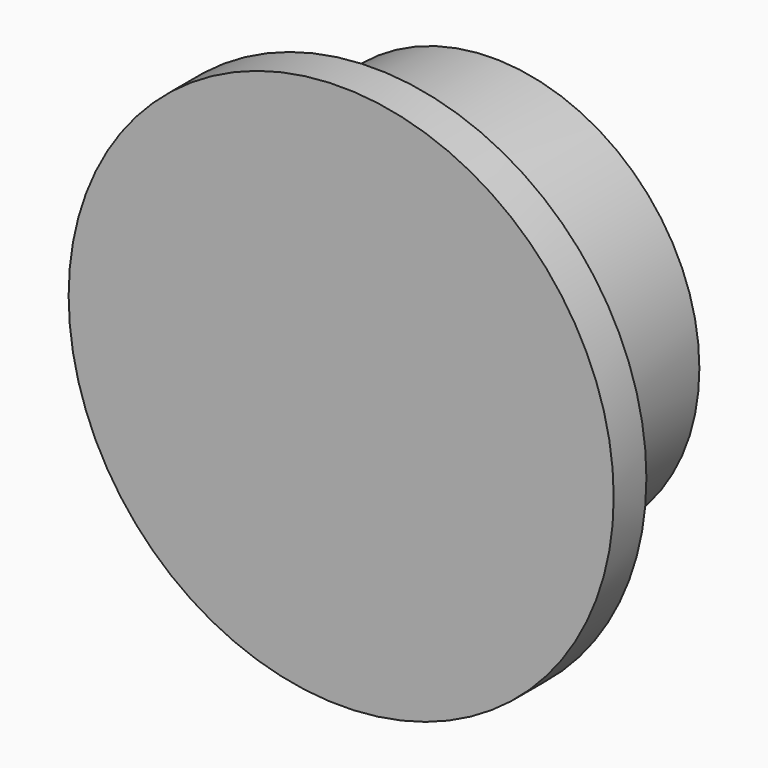
from build123d import *

# Parameters (mm, degrees)
F0_R     = 35.572234
F1_DEPTH = 5.334
F2_R     = 26.898119
F3_DEPTH = 20.066


with BuildPart() as f1:
    # F0 (on Front) → F1 (new body)
    with BuildSketch(Plane.XZ):
        with Locations((32.578804, 14.283045)):
            Circle(F0_R)
    extrude(amount=F1_DEPTH)

    # F2 (on Front) → F3 (join)
    with BuildSketch(Plane.XZ):
        with Locations((32.112859, 15.784286)):
            Circle(F2_R)
    extrude(amount=-F3_DEPTH)


solid = f1.part
